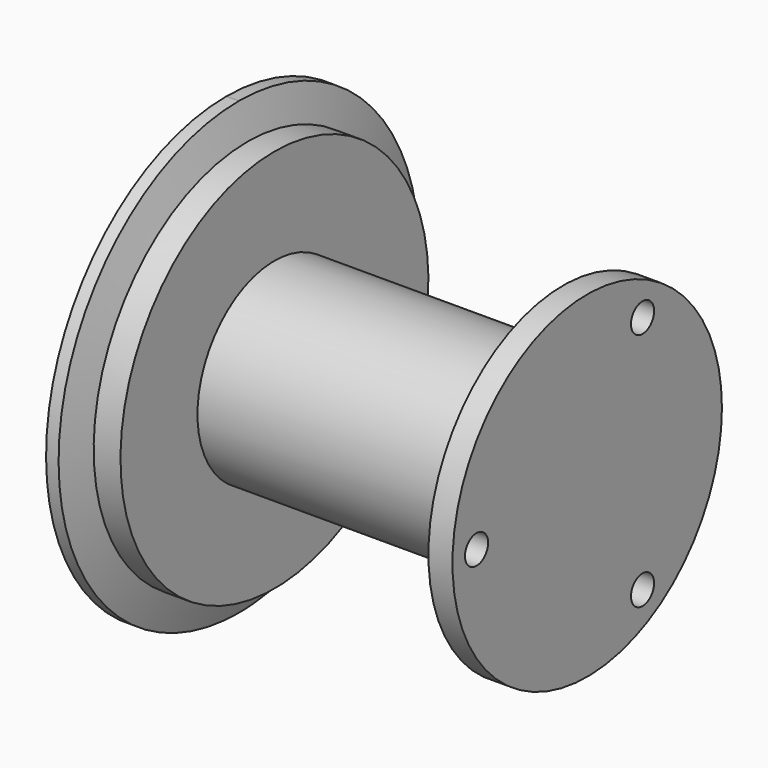
from build123d import *

# Parameters (mm, degrees)
F3_DEPTH  = 3.302
F4_R      = 4.826
F5_DEPTH  = 6.35
F6_R      = 25.4
F7_DEPTH  = 76.2
F8_R      = 44.45
F9_DEPTH  = 6.35
F10_R     = 3.81
F11_DEPTH = 25.4


with BuildPart() as f1:
    # F0 (on Front) → F1 (revolve)
    with BuildSketch(Plane.XZ):
        Polygon((0, 59.4741), (0, 0), (12.7, 0), (12.7, 50.8), (5.626218, 50.8), (3.302, 59.4741), align=None)
    revolve(axis=Axis((-7.589792, 0, 0), (1, 0, 0)))

    # F2 (on Right) → F3 (cut)
    with BuildSketch(Plane.YZ):
        with BuildLine():
            Line((4.826, -62.648721), (4.826, 38.1))
            ThreePointArc((4.826, 38.1), (0, 42.926), (-4.826, 38.1))
            Line((-4.826, 38.1), (-4.826, -62.648721))
            Line((-4.826, -62.648721), (4.826, -62.648721))
        make_face()
    extrude(amount=F3_DEPTH, mode=Mode.SUBTRACT)

    # F4 (on Right) → F5 (cut)
    with BuildSketch(Plane.YZ):
        with Locations((0, 38.1)):
            Circle(F4_R)
    extrude(amount=F5_DEPTH, mode=Mode.SUBTRACT)

    # F6 (on face) → F7 (join)
    with BuildSketch(Plane.YZ.offset(12.7)):
        Circle(F6_R)
    extrude(amount=F7_DEPTH)

    # F8 (on face) → F9 (join)
    with BuildSketch(Plane.YZ.offset(88.9)):
        Circle(F8_R)
    extrude(amount=F9_DEPTH)

    # F10 (on face) → F11 (cut)
    with BuildSketch(Plane.YZ.offset(95.25)):
        with Locations((-36.5125, 0)):
            Circle(F10_R)
        with Locations((18.25625, -31.620753)):
            Circle(F10_R)
        with Locations((18.25625, 31.620753)):
            Circle(F10_R)
    extrude(amount=-F11_DEPTH, mode=Mode.SUBTRACT)


solid = f1.part
